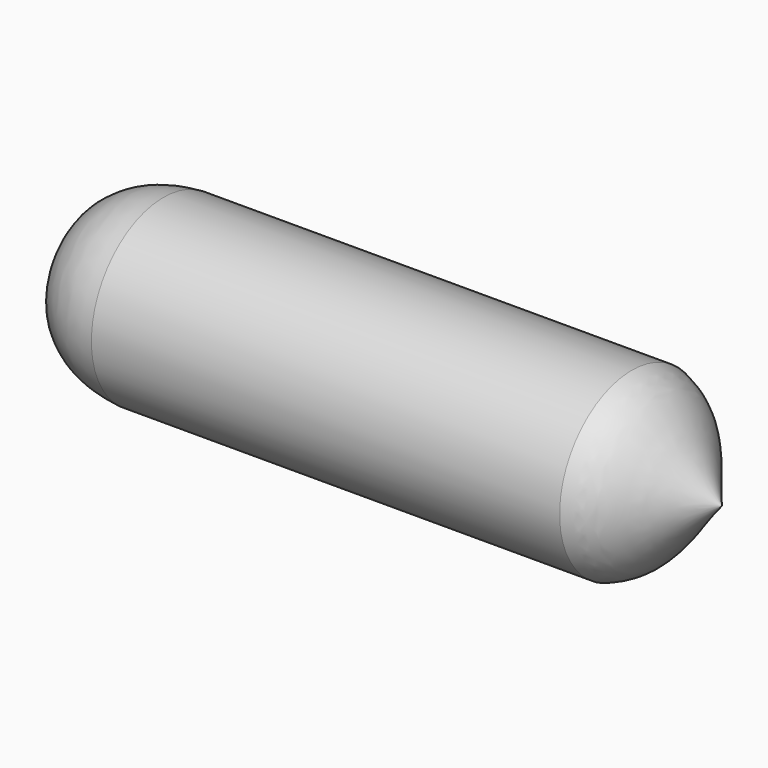
from build123d import *


with BuildPart() as part:
    # Sketch → Revolution (revolve)
    with BuildSketch(Plane.XY):
        with BuildLine():
            Line((-1332, 0), (1332, 0))
            Line((1332, 0), (1845, 0))
            add(Edge.make_bspline(
                [(1332, 513), (1434.6, 476.42), (1537.2, 382.75), (1639.8, 256.07), (1742.4, 120.46), (1845, 0)],
                knots=[0, 0, 0, 0, 0.333333, 0.666667, 1, 1, 1, 1], degree=3))
            add(Edge.make_bspline(
                [(-1332, 513), (-888, 513), (-444, 513), (0, 513), (444, 513), (888, 513), (1332, 513)],
                knots=[0, 0, 0, 0, 0.25, 0.5, 0.75, 1, 1, 1, 1], degree=3))
            add(Edge.make_bspline(
                [(-1887, 0), (-1776, 306.216), (-1665, 409.47), (-1554, 469.75), (-1443, 502.53), (-1332, 513)],
                knots=[0, 0, 0, 0, 0.333333, 0.666667, 1, 1, 1, 1], degree=3))
            Line((-1887, 0), (-1332, 0))
        make_face()
    revolve(axis=Axis((0, 0, 0), (1, 0, 0)))


solid = part.part
